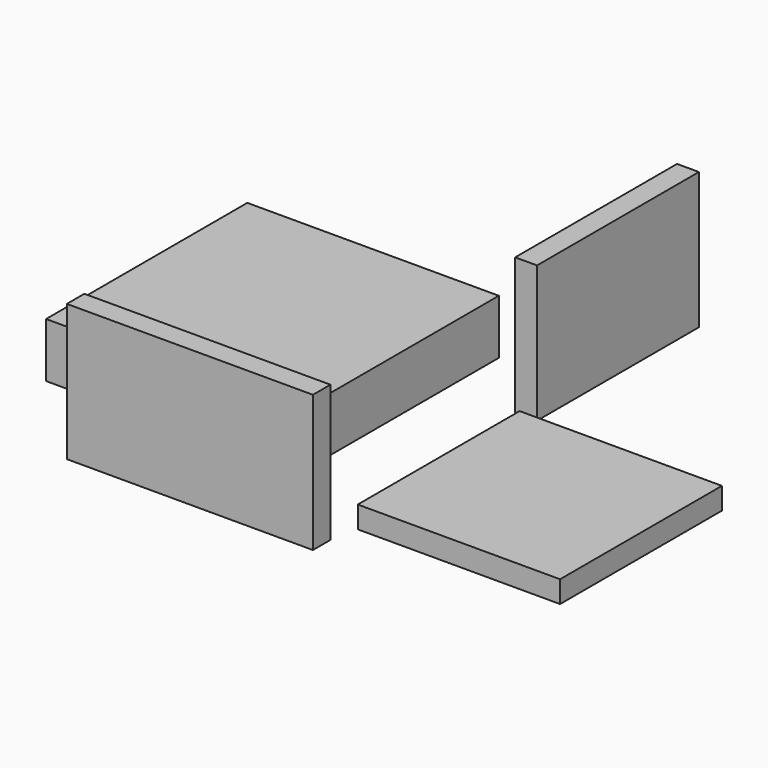
from build123d import *

# Parameters (mm, degrees)
F0_W      = 37
F0_H      = 37
F1_DEPTH  = 4
F3_DEPTH  = 4
F4_W      = 37
F4_H      = 25
F5_DEPTH  = 4
F6_W      = 46
F6_H      = 46
F7_DEPTH  = 12
F9_DEPTH  = 2
F11_DEPTH = 2


with BuildPart() as f1:
    # F0 (on Top) → F1 (new body)
    with BuildSketch(Plane.XY):
        with Locations((23.5, 23.5)):
            Rectangle(F0_W, F0_H)
    extrude(amount=F1_DEPTH)


with BuildPart() as f3:
    # F2 (on Front) → F3 (new body)
    with BuildSketch(Plane.XZ):
        Polygon((-41, 0), (0, 0), (4, 0), (4, 25), (-41, 25), align=None)
    extrude(amount=F3_DEPTH)


with BuildPart() as f5:
    # F4 (on Right) → F5 (new body)
    with BuildSketch(Plane.YZ):
        with Locations((65.736636, 12.5)):
            Rectangle(F4_W, F4_H)
    extrude(amount=F5_DEPTH)


with BuildPart() as f7:
    # F6 (on Top) → F7 (new body)
    with BuildSketch(Plane.XY):
        with Locations((-33, 33)):
            Rectangle(F6_W, F6_H)
    extrude(amount=F7_DEPTH)

    # F8 (on Top) → F9 (cut)
    with BuildSketch(Plane.XY):
        Polygon((-10, 10), (-10, 56), (-15, 56), (-15, 15), (-56, 15), (-56, 10), (-15, 10), align=None)
    extrude(amount=F9_DEPTH, mode=Mode.SUBTRACT)

    # F10 (on Top) → F11 (cut)
    with BuildSketch(Plane.XY):
        Polygon((-10, 51), (-10, 56), (-56, 56), (-56, 10), (-51, 10), (-51, 51), align=None)
    extrude(amount=F11_DEPTH, mode=Mode.SUBTRACT)


solid = Compound([f1.part, f3.part, f5.part, f7.part])
